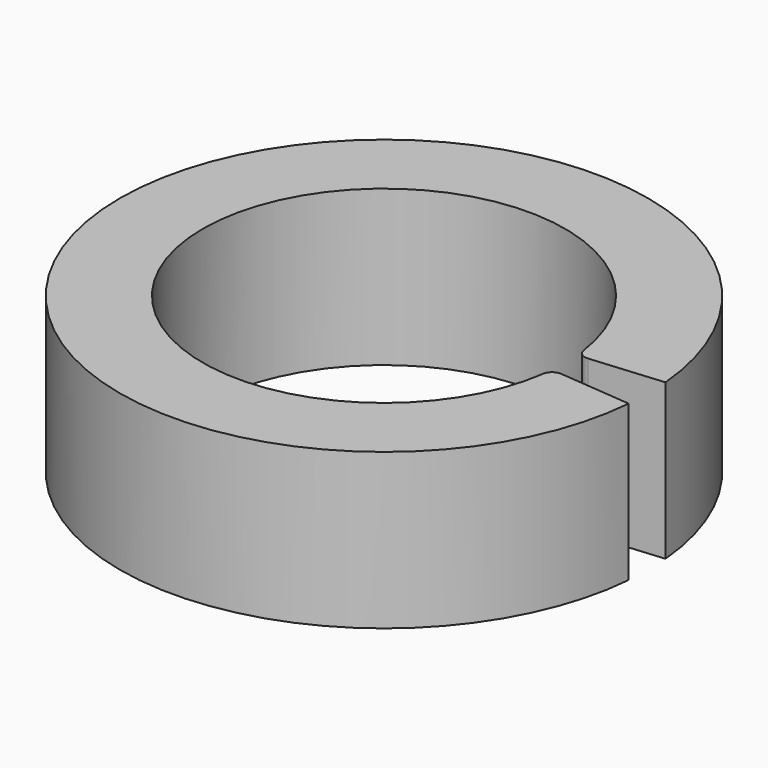
from build123d import *

# Parameters (mm, degrees)
PAD_DEPTH = 15
FILLET_R  = 1


with BuildPart() as part:
    # Sketch → Pad (new body)
    with BuildSketch(Plane.XY):
        with BuildLine():
            ThreePointArc((17.433407, 1.525225), (-17.5, 0), (17.433407, -1.525225))
            Line((17.433407, -1.525225), (25.402965, -2.222471))
            ThreePointArc((25.402965, 2.222471), (-25.5, 0), (25.402965, -2.222471))
            Line((17.433407, 1.525225), (25.402965, 2.222471))
        make_face()
    extrude(amount=PAD_DEPTH)

    # Fillet
    fillet_edges = [part.edges().sort_by_distance(p)[0] for p in [
        (17.433407, 1.525225, 7.5),
        (17.433407, -1.525225, 7.5),
    ]]
    fillet(fillet_edges, radius=FILLET_R)


solid = part.part
